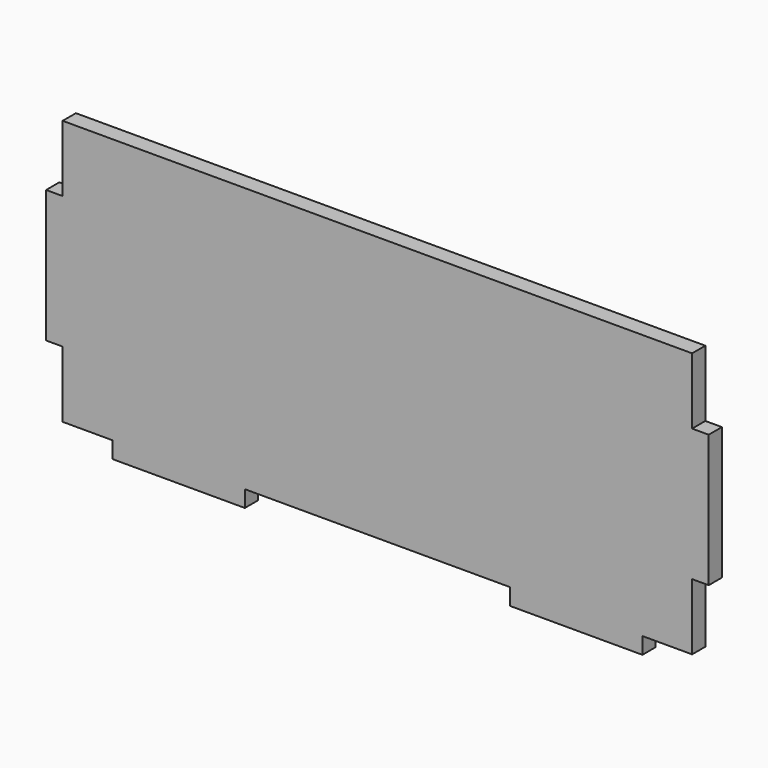
from build123d import *

# Parameters (mm, degrees)
F0_W     = 254
F0_H     = 101.6
F1_DEPTH = 6.35
F2_W     = 50.8
F2_H     = 6.35
F3_DEPTH = 6.35
F4_W     = 6.35
F4_H     = 25.4
F5_DEPTH = 25.4


with BuildPart() as f1:
    # F0 (on Front) → F1 (new body)
    with BuildSketch(Plane.XZ):
        with Locations((0, 50.8)):
            Rectangle(F0_W, F0_H)
    extrude(amount=F1_DEPTH)

    # F2 (on face) → F3 (join)
    with BuildSketch(Plane.XZ.offset(6.35)):
        with Locations((76.2, -3.175)):
            Rectangle(F2_W, F2_H)
        with Locations((-76.2, -3.175)):
            Rectangle(F2_W, F2_H)
    extrude(amount=-F3_DEPTH)

    # F4 (on face) → F5 (cut)
    with BuildSketch(Plane.XZ.offset(6.35)):
        with Locations((123.825, 88.9)):
            Rectangle(F4_W, F4_H)
        with Locations((123.825, 12.7)):
            Rectangle(F4_W, F4_H)
        with Locations((-123.825, 12.7)):
            Rectangle(F4_W, F4_H)
        with Locations((-123.825, 88.9)):
            Rectangle(F4_W, F4_H)
    extrude(amount=-F5_DEPTH, mode=Mode.SUBTRACT)


solid = f1.part
